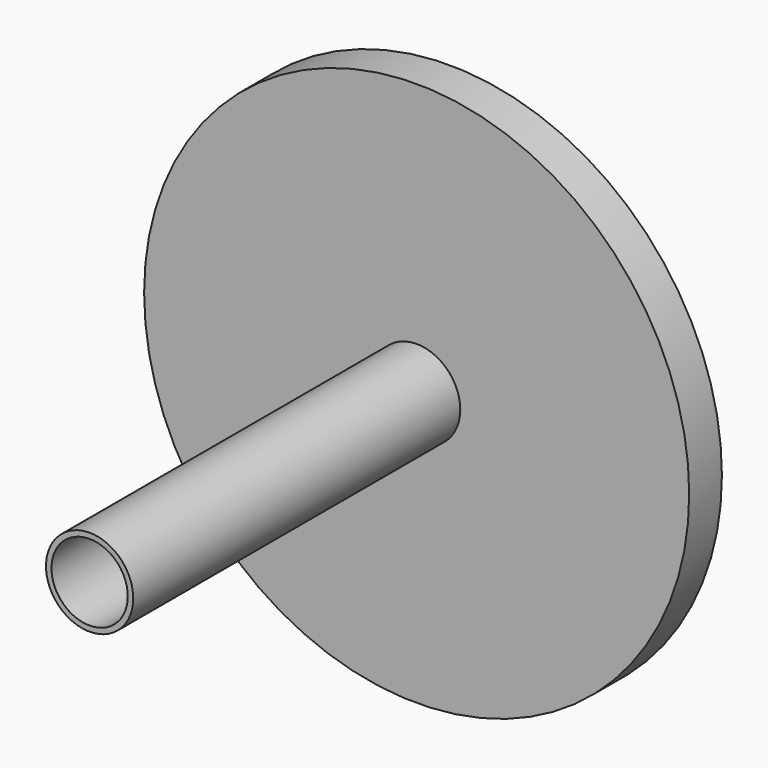
from build123d import *

# Parameters (mm, degrees)
F0_R     = 100
F1_DEPTH = 15
F2_R     = 16
F3_DEPTH = 150
F4_T     = -2


with BuildPart() as f1:
    # F0 (on Front) → F1 (new body)
    with BuildSketch(Plane.XZ):
        Circle(F0_R)
    extrude(amount=F1_DEPTH)

    # F2 (on face) → F3 (join)
    with BuildSketch(Plane.XZ.offset(15)):
        Circle(F2_R)
    extrude(amount=F3_DEPTH)

    # F4
    f4_openings = [f1.faces().sort_by_distance(p)[0] for p in [
        (0, -165, 0),
    ]]
    offset(amount=F4_T, openings=f4_openings, kind=Kind.INTERSECTION)


solid = f1.part
